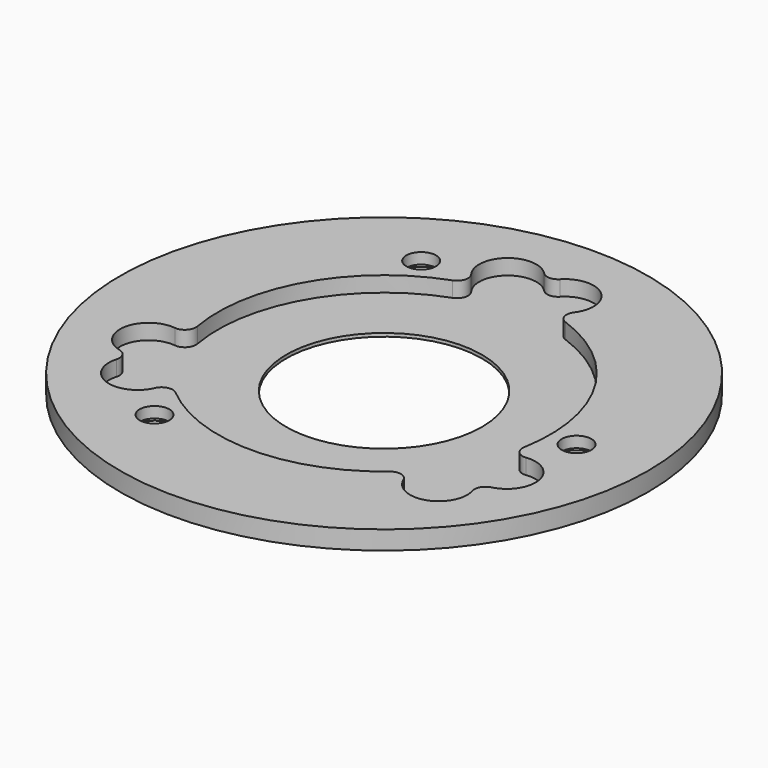
from build123d import *

# Parameters (mm, degrees)
SKETCH_W         = 15.1
SKETCH_H         = 1.7
POCKET_DEPTH     = 5.2
HOLE_D           = 2.7
HOLE_CBORE_D     = 4.7
HOLE_CBORE_DEPTH = 0.7


with BuildPart() as part:
    # Sketch → Revolution (revolve)
    with BuildSketch(Plane.XZ):
        with Locations((16.45, 0.85)):
            Rectangle(SKETCH_W, SKETCH_H)
    revolve(axis=Axis((0, 0, 0), (0, 0, 1)))

    # Sketch001 → Pocket (cut)
    with BuildSketch(Plane.XY.offset(0.3)):
        with BuildLine():
            ThreePointArc((-15.971238, -3.820499), (-18.844764, -5.933151), (-16.905745, -8.926586))
            ThreePointArc((-16.183523, -10.177512), (-16.277605, -9.39788), (-16.905745, -8.926586))
            ThreePointArc((-16.183523, -10.177512), (-14.560642, -13.353469), (-11.294268, -11.921249))
            ThreePointArc((-9.729552, -11.547546), (-10.60619, -11.33964), (-11.294268, -11.921249))
            ThreePointArc((-9.729552, -11.547546), (0, -15.1), (9.729552, -11.547546))
            ThreePointArc((11.294268, -11.921249), (10.60619, -11.33964), (9.729552, -11.547546))
            ThreePointArc((11.294268, -11.921249), (14.560642, -13.353469), (16.183523, -10.177512))
            ThreePointArc((16.905745, -8.926586), (16.277605, -9.39788), (16.183523, -10.177512))
            ThreePointArc((16.905745, -8.926586), (18.844764, -5.933151), (15.971238, -3.820499))
            ThreePointArc((14.865244, -2.652266), (15.123511, -3.51541), (15.971238, -3.820499))
            ThreePointArc((14.865244, -2.652266), (13.076984, 7.55), (5.135693, 14.199812))
            ThreePointArc((4.67697, 15.741748), (4.517321, 14.85505), (5.135693, 14.199812))
            ThreePointArc((4.67697, 15.741748), (4.284123, 19.28662), (0.722222, 19.104098))
            ThreePointArc((-0.722222, 19.104098), (0, 18.795759), (0.722222, 19.104098))
            ThreePointArc((-0.722222, 19.104098), (-4.284123, 19.28662), (-4.67697, 15.741748))
            ThreePointArc((-5.135693, 14.199812), (-4.517321, 14.85505), (-4.67697, 15.741748))
            ThreePointArc((-5.135693, 14.199812), (-13.076984, 7.55), (-14.865244, -2.652266))
            ThreePointArc((-15.971238, -3.820499), (-15.123511, -3.51541), (-14.865244, -2.652266))
        make_face()
    extrude(amount=POCKET_DEPTH, mode=Mode.SUBTRACT)

    # Hole (through all)
    with Locations(Plane(origin=(0, 0, 0), x_dir=(1, 0, 0), z_dir=(0, 0, -1))):
        with Locations((-8.75, -15.155445), (-8.75, 15.155445), (17.5, 0)):
            CounterBoreHole(HOLE_D / 2, HOLE_CBORE_D / 2, HOLE_CBORE_DEPTH)


solid = part.part
